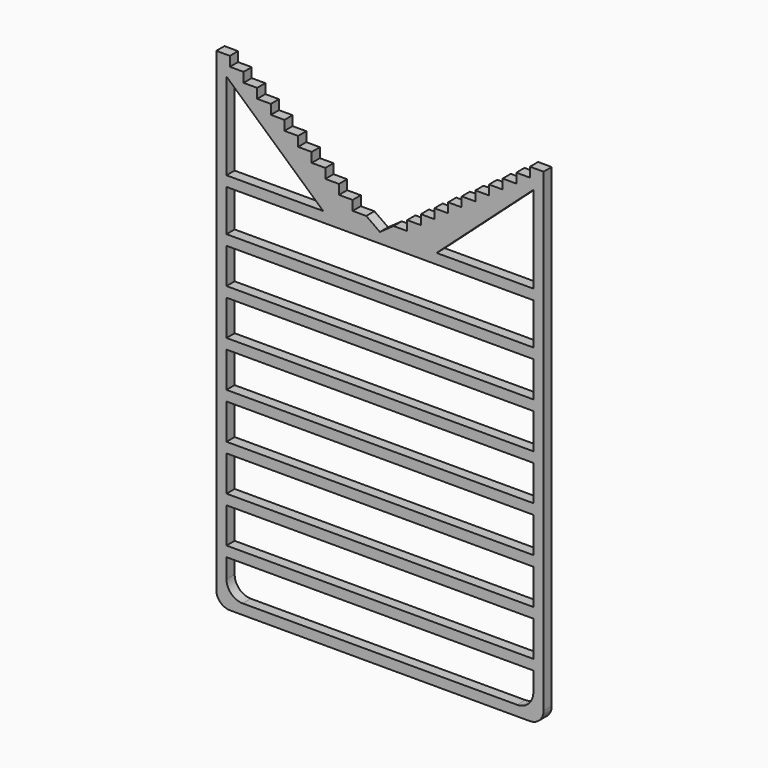
from build123d import *

# Parameters (mm, degrees)
F1_DEPTH = 9.525
F2_R     = 25.4
F3_W     = 571.5
F3_H     = 673.1
F4_DEPTH = 19.051
F5_R     = 30.099
F7_DEPTH = 19.051
F8_W     = 571.5
F8_H     = 19.05
F9_DEPTH = 19.05


with BuildPart() as f1:
    # F0 (on Front) → F1 (new body, symmetric)
    with BuildSketch(Plane.XZ):
        Polygon((-304.8, 355.6), (-304.8, -355.6), (304.8, -355.6), (304.8, 355.6), (0, 355.6), align=None)
        Polygon((-304.8, 553.508333), (-304.8, 355.6), (0, 355.6), (-25.4, 373.591667), (-50.8, 373.591667), (-50.8, 391.583333), (-76.2, 391.583333), (-76.2, 409.575), (-101.6, 409.575), (-101.6, 427.566667), (-127, 427.566667), (-127, 445.558333), (-152.4, 445.558333), (-152.4, 463.55), (-177.8, 463.55), (-177.8, 481.541667), (-203.2, 481.541667), (-203.2, 499.533333), (-228.6, 499.533333), (-228.6, 517.525), (-254, 517.525), (-254, 535.516667), (-279.4, 535.516667), (-279.4, 553.508333), align=None)
        Polygon((0, 355.6), (304.8, 355.6), (304.8, 553.508333), (279.4, 553.508333), (279.4, 535.516667), (254, 535.516667), (254, 517.525), (228.6, 517.525), (228.6, 499.533333), (203.2, 499.533333), (203.2, 481.541667), (177.8, 481.541667), (177.8, 463.55), (152.4, 463.55), (152.4, 445.558333), (127, 445.558333), (127, 427.566667), (101.6, 427.566667), (101.6, 409.575), (76.2, 409.575), (76.2, 391.583333), (50.8, 391.583333), (50.8, 373.591667), (25.4, 373.591667), align=None)
    extrude(amount=F1_DEPTH, both=True)

    # F2
    f2_edges = [f1.edges().sort_by_distance(p)[0] for p in [
        (-304.8, 0, -355.6),
        (304.8, 0, -355.6),
    ]]
    fillet(f2_edges, radius=F2_R)

    # F3 (on face) → F4 (cut, through all)
    with BuildSketch(Plane.XZ.offset(9.525)):
        Rectangle(F3_W, F3_H)
    extrude(amount=-F4_DEPTH, mode=Mode.SUBTRACT)

    # F5
    f5_edges = [f1.edges().sort_by_distance(p)[0] for p in [
        (285.75, 0, -336.55),
        (-285.75, 0, -336.55),
    ]]
    fillet(f5_edges, radius=F5_R)

    # F6 (on face) → F7 (cut, through all)
    with BuildSketch(Plane.XZ.offset(9.525)):
        Polygon((-285.75, 355.6), (-105.537, 355.6), (-285.75, 517.525), align=None)
        Polygon((105.526209, 355.6), (285.75, 355.6), (285.75, 517.525), align=None)
    extrude(amount=-F7_DEPTH, mode=Mode.SUBTRACT)

    # F8 (on face) → F9 (join)
    with BuildSketch(Plane.XZ.offset(9.525)):
        with Locations((0, 164.465)):
            Rectangle(F8_W, F8_H)
        with Locations((0, 249.555)):
            Rectangle(F8_W, F8_H)
        with Locations((0, 79.375)):
            Rectangle(F8_W, F8_H)
        with Locations((0, -5.715)):
            Rectangle(F8_W, F8_H)
        with Locations((0, -90.805)):
            Rectangle(F8_W, F8_H)
        with Locations((0, -175.895)):
            Rectangle(F8_W, F8_H)
        with Locations((0, -260.985)):
            Rectangle(F8_W, F8_H)
    extrude(amount=-F9_DEPTH)


solid = f1.part
